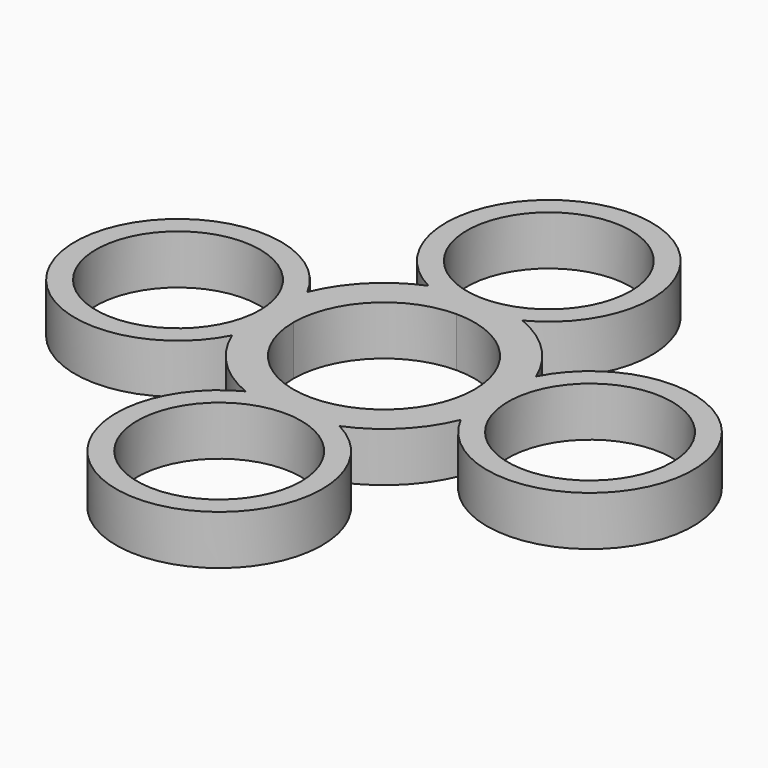
from build123d import *

# Parameters (mm, degrees)
F0_R     = 9.95
F1_DEPTH = 6


with BuildPart() as f1:
    # F0 (on Top) → F1 (new body)
    with BuildSketch(Plane.XY):
        with BuildLine():
            ThreePointArc((5.699507, 13.875), (0, 37.5), (-5.699507, 13.875))
            ThreePointArc((-5.699507, 13.875), (-10.606602, 10.606602), (-13.875, 5.699507))
            ThreePointArc((-13.875, 5.699507), (-37.5, 0), (-13.875, -5.699507))
            ThreePointArc((-13.875, -5.699507), (-10.606602, -10.606602), (-5.699507, -13.875))
            ThreePointArc((-5.699507, -13.875), (0, -37.5), (5.699507, -13.875))
            ThreePointArc((5.699507, -13.875), (10.606602, -10.606602), (13.875, -5.699507))
            ThreePointArc((13.875, -5.699507), (37.5, 0), (13.875, 5.699507))
            ThreePointArc((13.875, 5.699507), (10.606602, 10.606602), (5.699507, 13.875))
        make_face()
        with Locations((0, -25)):
            Circle(F0_R, mode=Mode.SUBTRACT)
        with Locations((-25, 0)):
            Circle(F0_R, mode=Mode.SUBTRACT)
        with BuildLine():
            ThreePointArc((0, 11), (7.778175, 7.778175), (11, 0))
            ThreePointArc((11, 0), (7.778175, -7.778175), (0, -11))
            ThreePointArc((0, -11), (-7.778175, -7.778175), (-11, 0))
            ThreePointArc((-11, 0), (-7.778175, 7.778175), (0, 11))
        make_face(mode=Mode.SUBTRACT)
        with Locations((25, 0)):
            Circle(F0_R, mode=Mode.SUBTRACT)
        with Locations((0, 25)):
            Circle(F0_R, mode=Mode.SUBTRACT)
    extrude(amount=F1_DEPTH)


solid = f1.part
